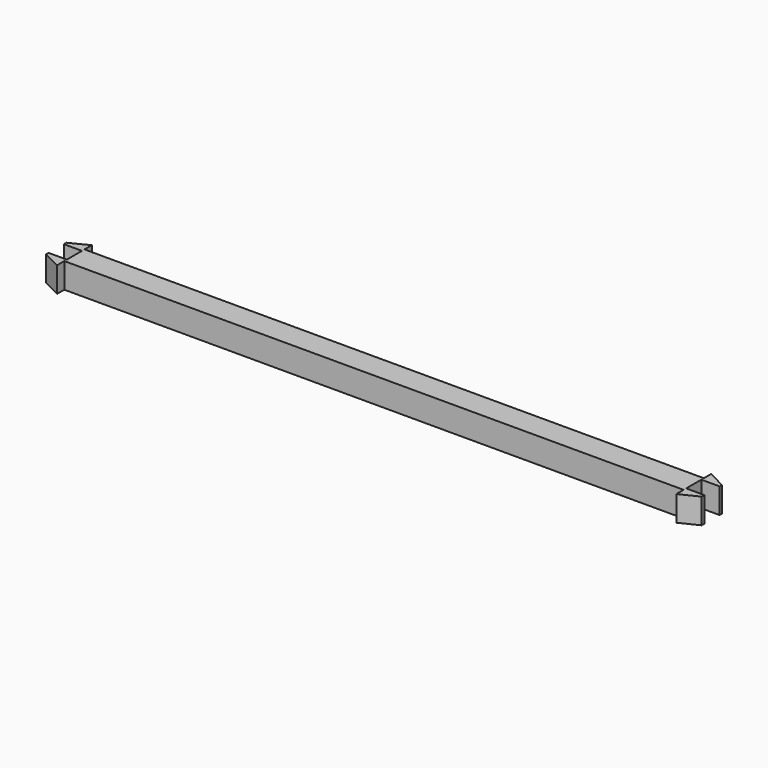
from build123d import *

# Parameters (mm, degrees)
F1_DEPTH = 8.8
F2_DEPTH = 25
F3_DEPTH = 25


with BuildPart() as f1:
    # F0 (on Top) → F1 (new body)
    with BuildSketch(Plane.XY):
        Polygon((107.95, 4.459752), (0, 4.459752), (-107.95, 4.459752), (-107.95, 3.359752), (-107.95, -3.240248), (-107.95, -4.340248), (107.95, -4.340248), (107.95, -3.240248), (107.95, 0), (107.95, 0.059752), (107.95, 3.359752), align=None)
        Polygon((-107.95, 3.359752), (-107.95, 4.459752), (-107.95, 7.634752), (-114.3, 4.459752), (-114.3, 3.359752), align=None)
        Polygon((107.95, 7.634752), (107.95, 4.459752), (107.95, 3.359752), (114.3, 3.359752), (114.3, 4.4), align=None)
        Polygon((-107.95, -3.240248), (-107.95, 3.359752), (-114.3, 3.359752), (-114.3, 0.059752), (-114.3, -3.240248), align=None)
        Polygon((114.3, 3.359752), (107.95, 3.359752), (107.95, 0.059752), (107.95, 0), (107.95, -3.240248), (114.3, -3.240248), (114.3, 0), align=None)
        Polygon((-107.95, -4.340248), (-107.95, -3.240248), (-114.3, -3.240248), (-114.3, -4.340248), (-107.95, -7.515248), align=None)
        Polygon((107.95, -3.240248), (107.95, -4.340248), (107.95, -7.515248), (114.3, -4.4), (114.3, -3.240248), align=None)
    extrude(amount=-F1_DEPTH)

    # F0 (on Top) → F2 (cut)
    with BuildSketch(Plane.XY):
        Polygon((-107.95, -3.240248), (-107.95, 3.359752), (-114.3, 3.359752), (-114.3, 0.059752), (-114.3, -3.240248), align=None)
    extrude(amount=-F2_DEPTH, mode=Mode.SUBTRACT)

    # F0 (on Top) → F3 (cut)
    with BuildSketch(Plane.XY):
        Polygon((114.3, 3.359752), (107.95, 3.359752), (107.95, 0.059752), (107.95, 0), (107.95, -3.240248), (114.3, -3.240248), (114.3, 0), align=None)
    extrude(amount=-F3_DEPTH, mode=Mode.SUBTRACT)


solid = f1.part
